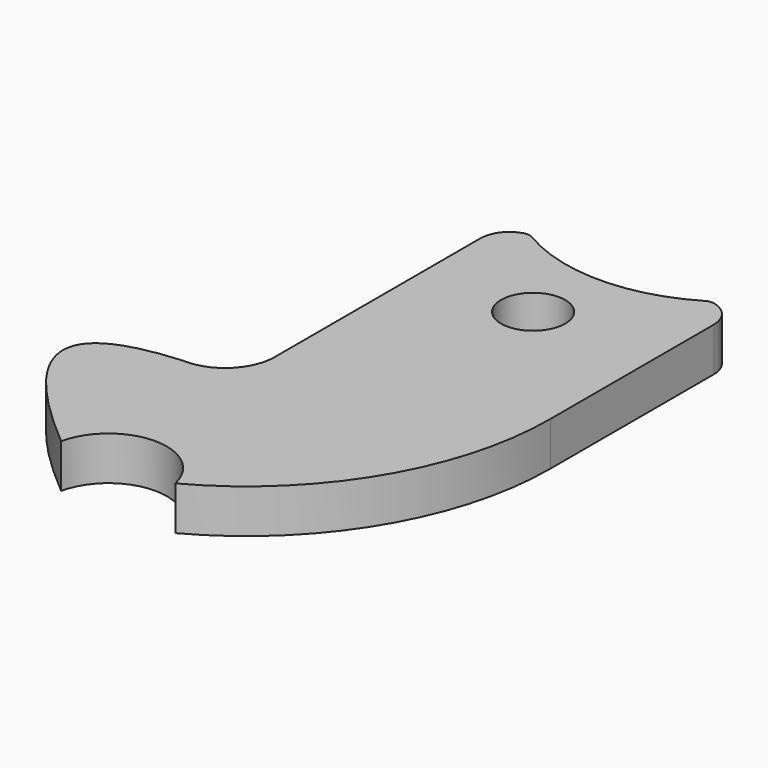
from build123d import *

# Parameters (mm, degrees)
F0_R     = 6.985
F1_DEPTH = 9.525


with BuildPart() as f1:
    # F0 (on Top) → F1 (new body)
    with BuildSketch(Plane.XY):
        with BuildLine():
            Line((-4.50409, 82.16696), (-4.50409, 26.28696))
            ThreePointArc((-4.50409, 26.28696), (-7.878907, 18.441342), (-15.895572, 15.495804))
            add(Edge.make_bspline(
                [(-15.895572, 15.495804), (-43.221034, 13.571337), (-37.874747, 0), (-13.493431, -20.583188)],
                knots=[0, 0, 0, 0, 36.15887, 36.15887, 36.15887, 36.15887], degree=3))
            ThreePointArc((-13.493431, -20.583188), (-1.07509, -10.54304), (11.343251, -20.583188))
            ThreePointArc((11.343251, -20.583188), (36.888253, 3.729479), (46.29591, 37.71696))
            Line((46.29591, 37.71696), (46.29591, 54.61071))
            Line((46.29591, 54.61071), (46.29591, 82.16696))
            ThreePointArc((46.29591, 82.16696), (44.980282, 86.037051), (41.578555, 88.303488))
            ThreePointArc((41.578555, 88.303488), (40.57581, 88.364691), (39.627767, 88.032337))
            ThreePointArc((39.627767, 88.032337), (20.86164, 82.871538), (2.09044, 88.013855))
            ThreePointArc((2.09044, 88.013855), (1.118812, 88.348375), (0.094162, 88.270556))
            ThreePointArc((0.094162, 88.270556), (-3.22588, 85.987883), (-4.50409, 82.16696))
        make_face()
        with Locations((19.37191, 66.692886)):
            Circle(F0_R, mode=Mode.SUBTRACT)
    extrude(amount=F1_DEPTH)


solid = f1.part
